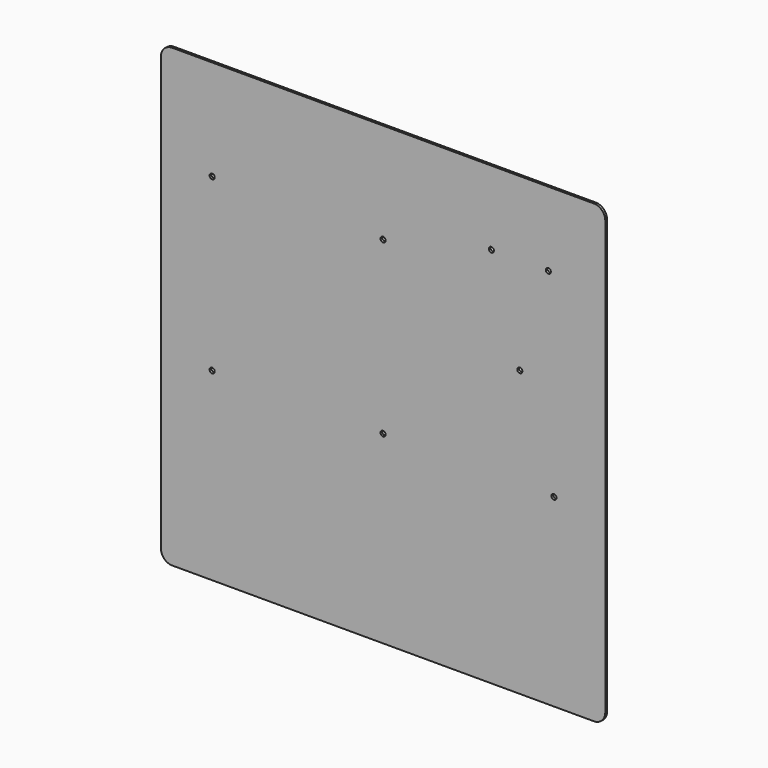
from build123d import *

# Parameters (mm, degrees)
F0_W     = 390
F0_H     = 400
F1_DEPTH = 2
F2_R     = 2.25
F3_DEPTH = 25
F4_R     = 10


with BuildPart() as f1:
    # F0 (on Front) → F1 (new body)
    with BuildSketch(Plane.XZ):
        with Locations((0, 200)):
            Rectangle(F0_W, F0_H)
    extrude(amount=F1_DEPTH)

    # F2 (on face) → F3 (cut)
    with BuildSketch(Plane.XZ.offset(2)):
        with Locations((145, 335)):
            Circle(F2_R)
        with Locations((95, 335)):
            Circle(F2_R)
        with Locations((120, 250)):
            Circle(F2_R)
        with Locations((0, 162)):
            Circle(F2_R)
        with Locations((-150, 162)):
            Circle(F2_R)
        with Locations((150, 162)):
            Circle(F2_R)
        with Locations((-150, 312)):
            Circle(F2_R)
        with Locations((0, 312)):
            Circle(F2_R)
    extrude(amount=-F3_DEPTH, mode=Mode.SUBTRACT)

    # F4
    f4_edges = [f1.edges().sort_by_distance(p)[0] for p in [
        (195, -1, 400),
        (-195, -1, 400),
        (195, -1, 0),
        (-195, -1, 0),
    ]]
    fillet(f4_edges, radius=F4_R)


solid = f1.part
